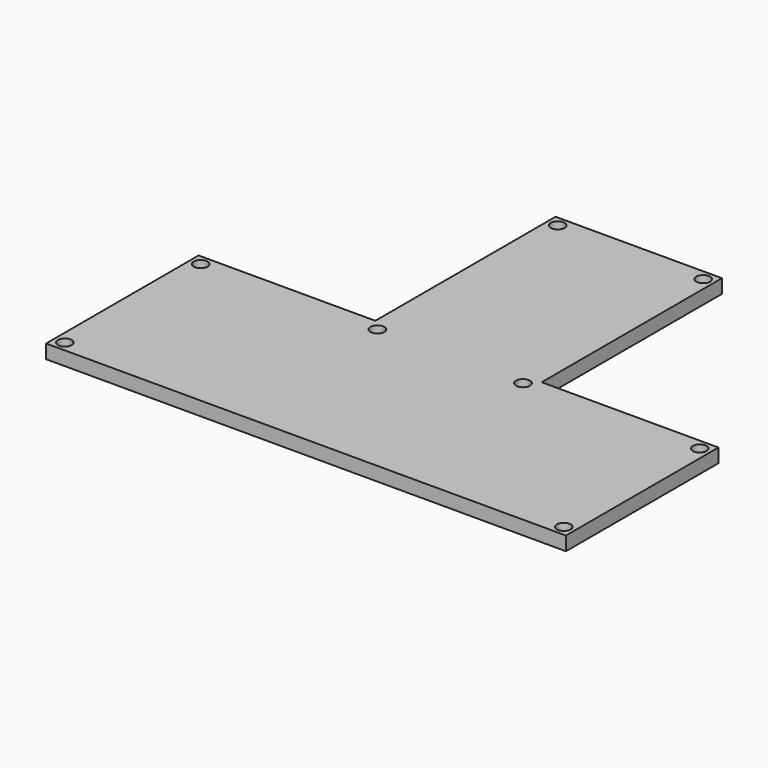
from build123d import *

# Parameters (mm, degrees)
SKETCH_R  = 2
PAD_DEPTH = 4


with BuildPart() as part:
    # Sketch → Pad (new body)
    with BuildSketch(Plane.XY):
        Polygon((-24, 120), (24, 120), (24, 55), (75, 55), (75, 0), (-75, 0), (-75, 55), (-24, 55), align=None)
        with Locations((-21, 52)):
            Circle(SKETCH_R, mode=Mode.SUBTRACT)
        with Locations((-21, 117)):
            Circle(SKETCH_R, mode=Mode.SUBTRACT)
        with Locations((21, 117)):
            Circle(SKETCH_R, mode=Mode.SUBTRACT)
        with Locations((21, 52)):
            Circle(SKETCH_R, mode=Mode.SUBTRACT)
        with Locations((72, 52)):
            Circle(SKETCH_R, mode=Mode.SUBTRACT)
        with Locations((72, 3)):
            Circle(SKETCH_R, mode=Mode.SUBTRACT)
        with Locations((-72, 52)):
            Circle(SKETCH_R, mode=Mode.SUBTRACT)
        with Locations((-72, 3)):
            Circle(SKETCH_R, mode=Mode.SUBTRACT)
    extrude(amount=PAD_DEPTH)


solid = part.part
